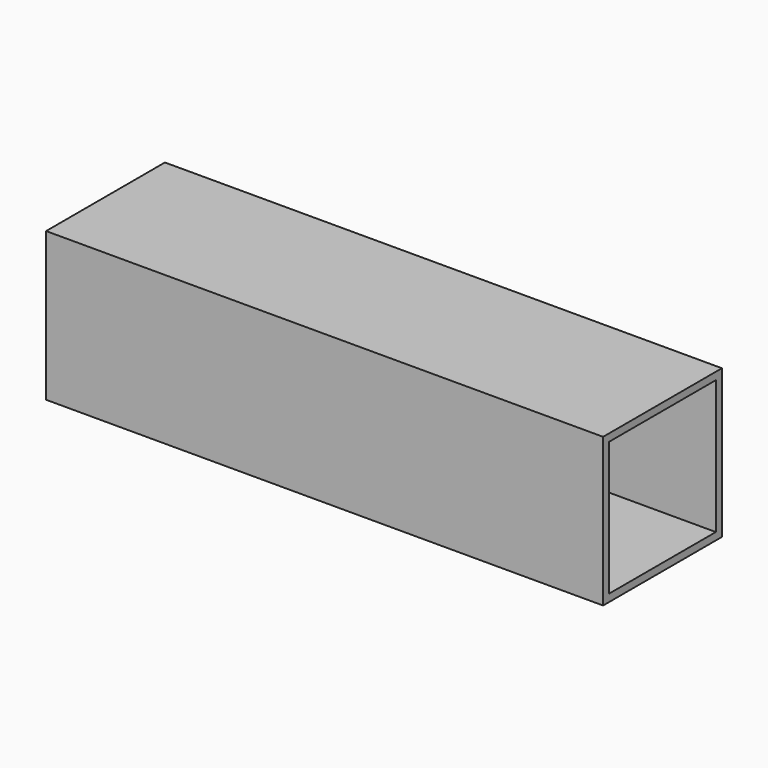
from build123d import *

# Parameters (mm, degrees)
F0_W     = 190.5
F0_H     = 50.8
F1_DEPTH = 50.8
F2_W     = 45.588648
F2_H     = 45.72
F3_DEPTH = 237.56619


with BuildPart() as f1:
    # F0 (on Top) → F1 (new body)
    with BuildSketch(Plane.XY):
        Rectangle(F0_W, F0_H)
    extrude(amount=F1_DEPTH)

    # F2 (on face) → F3 (cut)
    with BuildSketch(Plane.YZ.offset(95.25)):
        with Locations((0, 25.4)):
            Rectangle(F2_W, F2_H)
    extrude(amount=-F3_DEPTH, mode=Mode.SUBTRACT)


solid = f1.part
